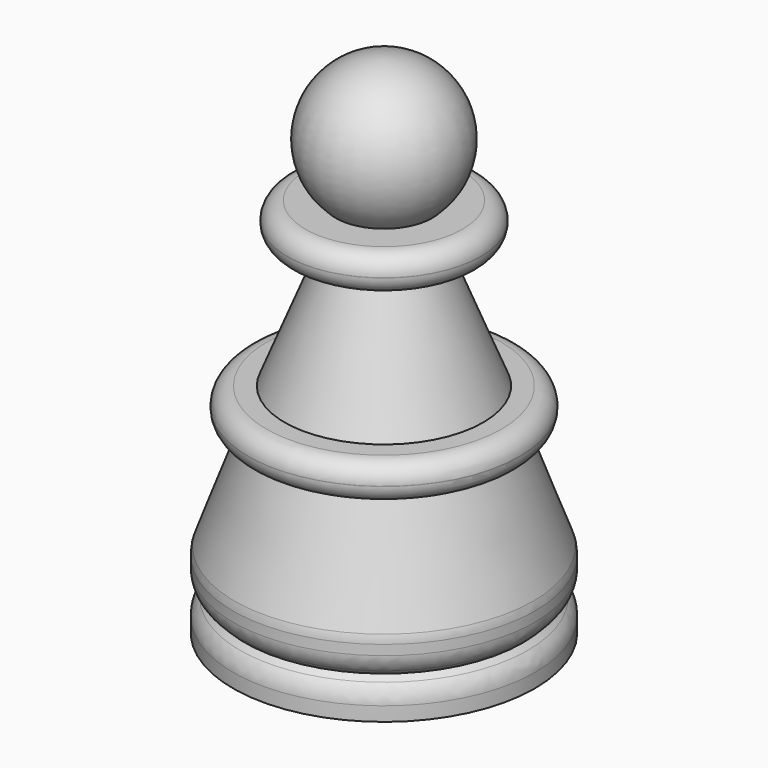
from build123d import *

# Parameters (mm, degrees)
FILLET_R    = 1.49
FILLET001_R = 2


with BuildPart() as part:
    # Sketch → Revolution (revolve)
    with BuildSketch(Plane.XZ):
        with BuildLine():
            Line((0, 5), (5, 5))
            Line((5, 5), (5, 0))
            Line((5, 0), (12.5, 0))
            Line((12.5, 0), (12.5, 2))
            Line((12.5, 2), (11.5, 3))
            Line((11.5, 3), (12.5, 4))
            Line((12.5, 4), (12.5, 6))
            Line((12.5, 6), (9.224268, 15))
            Line((9.224268, 15), (11.224268, 15))
            Line((11.224268, 15), (11.224268, 18))
            Line((11.224268, 18), (8.224268, 18))
            Line((8.224268, 18), (3.998762, 28.526757))
            Line((3.998762, 28.526757), (8, 28.526757))
            Line((8, 28.526757), (8, 31.526757))
            Line((8, 31.526757), (3.998762, 31.526757))
            ThreePointArc((3.998762, 31.526757), (5.60533, 38.140157), (0, 42))
            Line((0, 42), (0, 5))
        make_face()
    revolve(axis=Axis((0, 0, 0), (0, 0, 1)))

    # Fillet
    fillet_edges = [part.edges().sort_by_distance(p)[0] for p in [
        (-8, 0, 31.526757),
        (-8, 0, 28.526757),
        (-11.224268, 0, 18),
        (-11.224268, 0, 15),
    ]]
    fillet(fillet_edges, radius=FILLET_R)

    # Fillet001
    fillet001_edges = [part.edges().sort_by_distance(p)[0] for p in [
        (-12.5, 0, 6),
        (-12.5, 0, 4),
        (-12.5, 0, 2),
    ]]
    fillet(fillet001_edges, radius=FILLET001_R)


solid = part.part
